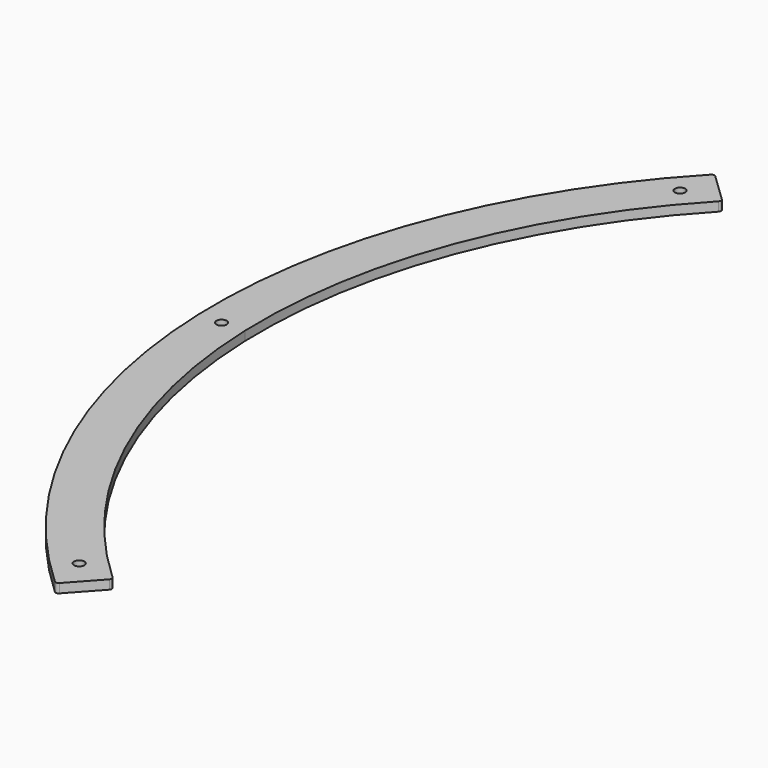
from build123d import *

# Parameters (mm, degrees)
PAD015_DEPTH                        = 3
SKETCH054_R                         = 1.7
POCKET018_DEPTH                     = 0.001
POCKET018_DEPTH_BACK                = 3.001
BODY001003005003004_PLACEMENT_ANGLE = 60
CLONE022_PLACEMENT_ANGLE            = 32


with BuildPart() as part:
    # Sketch053 → Pad015 (new body)
    with BuildSketch(Plane.XY):
        with BuildLine():
            Line((0, 182.848457), (0, 197.848457))
            ThreePointArc((141.077868, 138.712102), (76.485413, 182.466418), (0, 197.848457))
            ThreePointArc((141.062279, 137.294387), (141.364747, 138.000004), (141.077868, 138.712102))
            Line((131.746186, 128.227134), (141.062279, 137.294387))
            ThreePointArc((130.335906, 128.242388), (131.037899, 127.943805), (131.746186, 128.227134))
            ThreePointArc((130.335906, 128.242388), (70.656336, 168.64531), (0, 182.848457))
        make_face()
    pad015 = extrude(amount=PAD015_DEPTH)

    # Mirrored020: Pad015 across Sketch053 V_Axis
    add(pad015.mirror(Plane(origin=(0, 0, 0), x_dir=(0, 0, 1), z_dir=(1, 0, 0))))

    # Sketch054 → Pocket018 (cut, two sides)
    with BuildSketch(Plane.XY) as pocket018_sk:
        with Locations((129.243686, 139.741203)):
            Circle(SKETCH054_R)
        with Locations((0, 190.345828)):
            Circle(SKETCH054_R)
        with Locations((-129.243686, 139.741203)):
            Circle(SKETCH054_R)
    extrude(amount=-POCKET018_DEPTH, mode=Mode.SUBTRACT)
    extrude(pocket018_sk.sketch, amount=POCKET018_DEPTH_BACK, mode=Mode.SUBTRACT)


with BuildPart() as part_1:
    # Body001003005003004 placement: moved
    add(part.part.rotate(Axis((0, 0, 0), (0, 0, 1)), BODY001003005003004_PLACEMENT_ANGLE))


with BuildPart() as part_2:
    # Clone022 placement: moved
    add(part_1.part.moved(Location((388, 926, 0))).rotate(Axis((388, 926, 0), (0, 0, 1)), CLONE022_PLACEMENT_ANGLE))


solid = part_2.part
